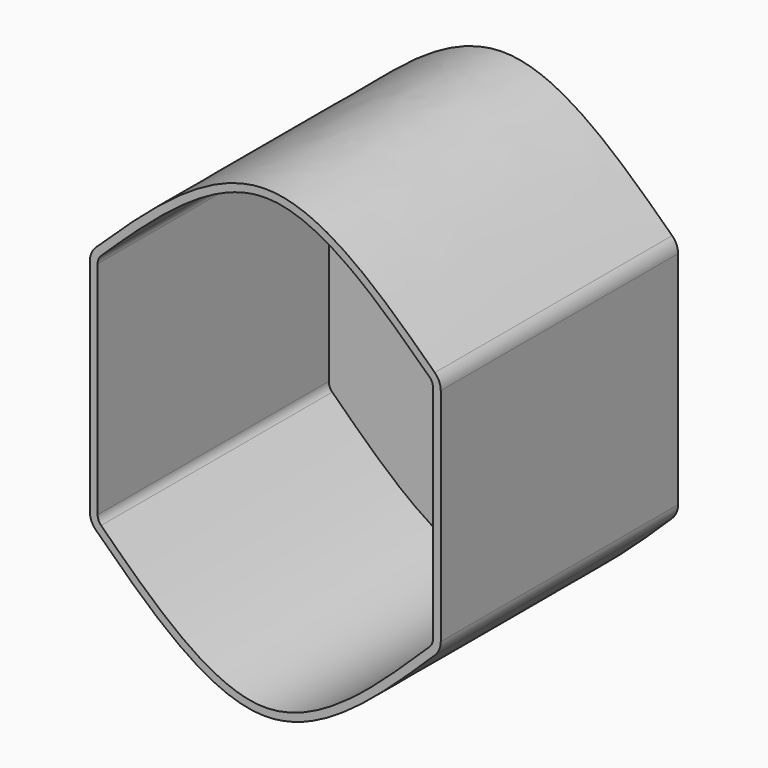
from build123d import *

# Parameters (mm, degrees)
F1_DEPTH = 97.536
F2_T     = -2.54


with BuildPart() as f1:
    # F0 (on Front) → F1 (new body)
    with BuildSketch(Plane.XZ):
        with BuildLine():
            ThreePointArc((-54.96882, 41.124963), (-56.412946, 39.033847), (-56.921471, 36.543934))
            Line((-56.921471, 36.543934), (-56.921471, -36.098607))
            ThreePointArc((-56.921471, -36.098607), (-56.42559, -38.558646), (-55.015396, -40.634468))
            add(Edge.make_bspline(
                [(-55.015396, -40.634468), (-36.425587, -58.847484), (0.75403, -94.108212), (37.933648, -58.847484), (56.523456, -40.634468)],
                knots=[2.277376, 2.277376, 2.277376, 2.277376, 68.91061, 135.543844, 135.543844, 135.543844, 135.543844], degree=3))
            ThreePointArc((56.523456, -40.634468), (57.933651, -38.558646), (58.429532, -36.098607))
            Line((58.429532, -36.098607), (58.429532, 36.543934))
            ThreePointArc((58.429532, 36.543934), (57.921007, 39.033847), (56.476881, 41.124963))
            add(Edge.make_bspline(
                [(-54.96882, 41.124963), (-36.394536, 58.954497), (0.75403, 93.445833), (37.902597, 58.954497), (56.476881, 41.124963)],
                knots=[2.319022, 2.319022, 2.319022, 2.319022, 68.497003, 134.674984, 134.674984, 134.674984, 134.674984], degree=3))
        make_face()
    extrude(amount=F1_DEPTH)

    # F2
    f2_openings = [f1.faces().sort_by_distance(p)[0] for p in [
        (0.75403, -97.536, -0.018064),
    ]]
    offset(amount=F2_T, openings=f2_openings)


solid = f1.part
